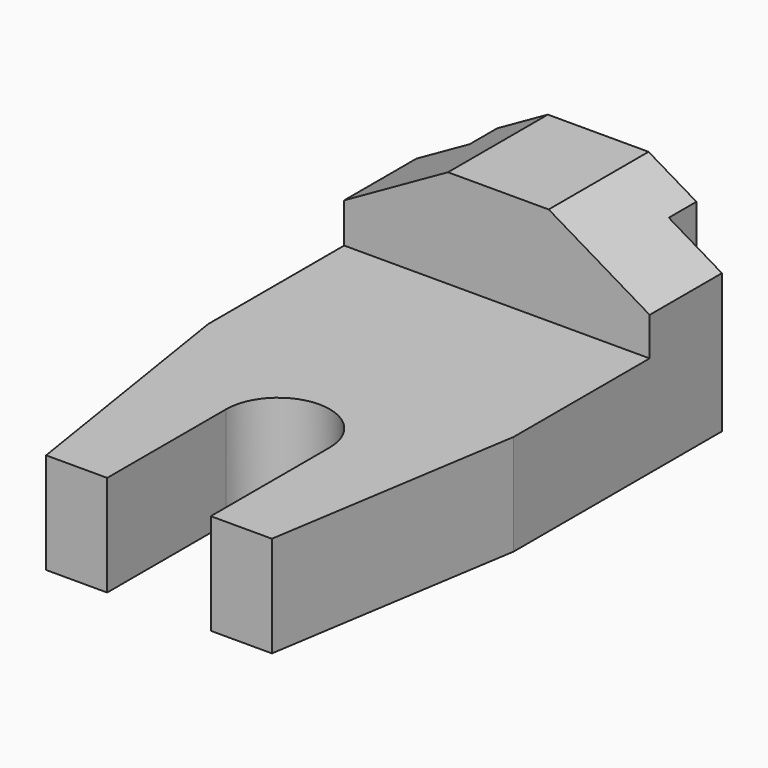
from build123d import *

# Parameters (mm, degrees)
F0_W      = 58.42
F0_H      = 19.304
F1_DEPTH  = 104.648
F3_DEPTH  = 254
F4_DEPTH  = 18.796
F2_W      = 10.16
F2_H      = 6.604
F5_DEPTH  = 254
F8_DEPTH  = 25.4
F10_DEPTH = 25.4


with BuildPart() as f1:
    # F0 (on Front) → F1 (new body)
    with BuildSketch(Plane.XZ):
        with Locations((-25.778878, -6.473551)):
            Rectangle(F0_W, F0_H)
    extrude(amount=F1_DEPTH)

    # F2 (on face) → F3 (cut)
    with BuildSketch(Plane.XY.offset(3.178449)):
        with BuildLine():
            ThreePointArc((-35.684878, -76.2), (-25.778878, -86.106), (-15.872878, -76.2))
            Line((-15.872878, -76.2), (-35.684878, -76.2))
        make_face()
        with BuildLine():
            Line((-35.684878, -76.2), (-15.872878, -76.2))
            ThreePointArc((-15.872878, -76.2), (-25.778878, -66.294), (-35.684878, -76.2))
        make_face()
        with BuildLine():
            Line((-35.684878, -104.648), (-25.778878, -104.648))
            Line((-25.778878, -104.648), (-15.872878, -104.648))
            Line((-15.872878, -104.648), (-15.872878, -76.2))
            ThreePointArc((-15.872878, -76.2), (-25.778878, -86.106), (-35.684878, -76.2))
            Line((-35.684878, -76.2), (-35.684878, -104.648))
        make_face()
        Polygon((-54.988878, -104.648), (-47.368878, -104.648), (-54.988878, -56.388), align=None)
        Polygon((3.431122, -56.388), (-4.188878, -104.648), (3.431122, -104.648), align=None)
    extrude(amount=-F3_DEPTH, mode=Mode.SUBTRACT)

    # F2 (on face) → F4 (join)
    with BuildSketch(Plane.XY.offset(3.178449)):
        Polygon((-54.988878, -23.876), (3.431122, -23.876), (3.431122, -6.604), (-6.728878, -6.604), (-6.728878, 0), (-44.828878, 0), (-44.828878, -6.604), (-54.988878, -6.604), align=None)
    extrude(amount=F4_DEPTH)

    # F2 (on face) → F5 (cut)
    with BuildSketch(Plane.XY.offset(3.178449)):
        with BuildLine():
            Line((-35.684878, -104.648), (-25.778878, -104.648))
            Line((-25.778878, -104.648), (-15.872878, -104.648))
            Line((-15.872878, -104.648), (-15.872878, -76.2))
            ThreePointArc((-15.872878, -76.2), (-25.778878, -86.106), (-35.684878, -76.2))
            Line((-35.684878, -76.2), (-35.684878, -104.648))
        make_face()
        with BuildLine():
            Line((-35.684878, -76.2), (-15.872878, -76.2))
            ThreePointArc((-15.872878, -76.2), (-25.778878, -66.294), (-35.684878, -76.2))
        make_face()
        Polygon((-54.988878, -56.388), (-54.988878, -104.648), (-47.368878, -104.648), align=None)
        Polygon((-4.188878, -104.648), (3.431122, -104.648), (3.431122, -56.388), align=None)
        with Locations((-49.908878, -3.302)):
            Rectangle(F2_W, F2_H)
        with Locations((-1.648878, -3.302)):
            Rectangle(F2_W, F2_H)
    extrude(amount=-F5_DEPTH, mode=Mode.SUBTRACT)

    # F7 (on face) → F8 (cut)
    with BuildSketch(Plane(origin=(0, 0, 0), x_dir=(-1, 0, 0), z_dir=(0, 1, 0))):
        Polygon((86.693414, 21.974449), (35.135657, 21.974449), (86.693414, -7.065322), align=None)
    extrude(amount=-F8_DEPTH, mode=Mode.SUBTRACT)

    # F9 (on face) → F10 (cut)
    with BuildSketch(Plane(origin=(0, 0, 0), x_dir=(-1, 0, 0), z_dir=(0, 1, 0))):
        Polygon((-10.884415, 32.844201), (-3.437184, 10.502506), (34.180883, 32.844201), align=None)
    extrude(amount=-F10_DEPTH, mode=Mode.SUBTRACT)


solid = f1.part
